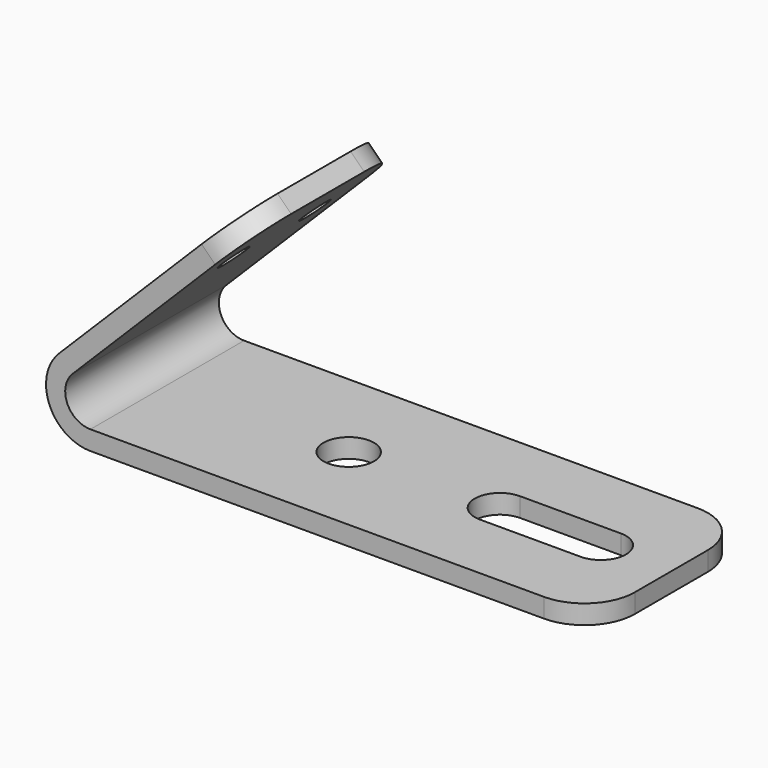
from build123d import *

# Parameters (mm, degrees)
F1_DEPTH = 241.935
F2_R     = 38.1
F3_DEPTH = 48.26
F4_R     = 63.5
F5_DEPTH = 48.261
F6_R     = 127


with BuildPart() as f1:
    # F0 (on Front) → F1 (new body, symmetric)
    with BuildSketch(Plane.XZ):
        with BuildLine():
            ThreePointArc((-79.026254, 190.786254), (-103.252777, 68.9913), (0, 0))
            Line((0, 0), (1270, 0))
            Line((1270, 0), (1270, 48.26))
            Line((1270, 48.26), (0, 48.26))
            ThreePointArc((0, 48.26), (-58.66635, 87.459602), (-44.901281, 156.661281))
            Line((-44.901281, 156.661281), (404.111525, 605.674087))
            Line((404.111525, 605.674087), (369.986552, 639.79906))
            Line((369.986552, 639.79906), (-79.026254, 190.786254))
        make_face()
    extrude(amount=F1_DEPTH, both=True)

    # F2 (on face) → F3 (cut, through all)
    with BuildSketch(Plane(origin=(-134.906254, 0, 134.906254), x_dir=(0, -1, 0), z_dir=(-0.707107, 0, 0.707107))):
        with Locations((-127.635, 523.526254)):
            Circle(F2_R)
        with Locations((127.635, 523.526254)):
            Circle(F2_R)
    extrude(amount=-F3_DEPTH, mode=Mode.SUBTRACT)

    # F4 (on face) → F5 (cut, through all)
    with BuildSketch(Plane.XY.offset(48.26)):
        with Locations((457.2, 0)):
            Circle(F4_R)
        with BuildLine():
            ThreePointArc((1092.2, -63.5), (1155.7, 0), (1092.2, 63.5))
            Line((1092.2, 63.5), (838.2, 63.5))
            ThreePointArc((838.2, 63.5), (774.7, 0), (838.2, -63.5))
            Line((838.2, -63.5), (1092.2, -63.5))
        make_face()
    extrude(amount=-F5_DEPTH, mode=Mode.SUBTRACT)

    # F6
    f6_edges = [f1.edges().sort_by_distance(p)[0] for p in [
        (387.049039, -241.935, 622.736573),
        (387.049039, 241.935, 622.736573),
        (1270, -241.935, 24.13),
        (1270, 241.935, 24.13),
    ]]
    fillet(f6_edges, radius=F6_R)


solid = f1.part
